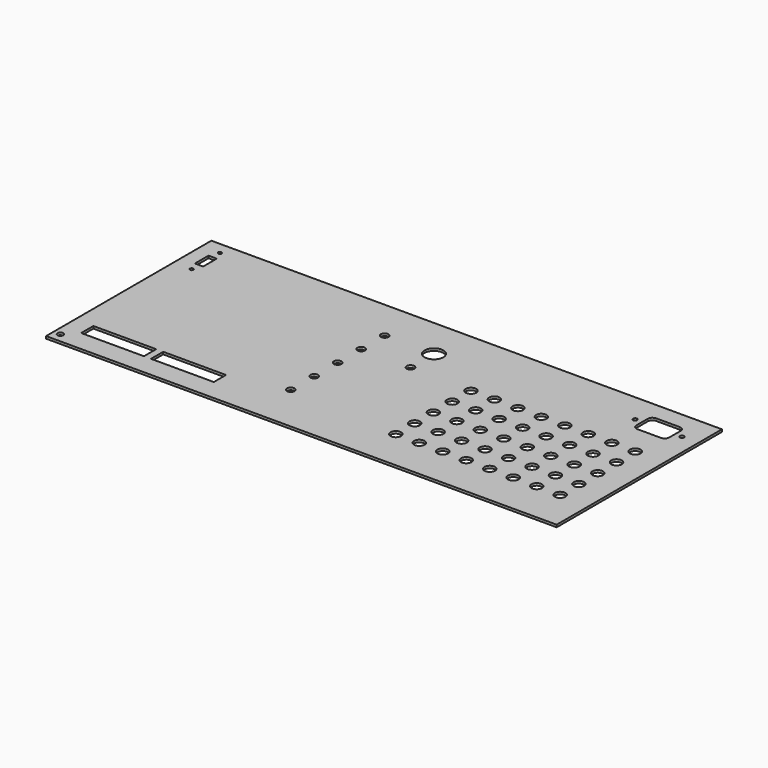
from build123d import *

# Parameters (mm, degrees)
F0_W     = 435
F0_H     = 176
F0_R     = 2.5
F0_W_2   = 53.5
F0_H_2   = 13
F0_R_2   = 3.25
F0_R_3   = 4.5
F0_R_4   = 1.5
F0_W_3   = 7
F0_H_3   = 14.5
F0_R_5   = 8
F0_R_6   = 1.75
F1_DEPTH = 2


with BuildPart() as f1:
    # F0 (on Top) → F1 (new body)
    with BuildSketch(Plane.XY):
        Rectangle(F0_W, F0_H)
        with Locations((-211.722836, -80)):
            Circle(F0_R, mode=Mode.SUBTRACT)
        with Locations((-175.25, -63.5)):
            Rectangle(F0_W_2, F0_H_2, mode=Mode.SUBTRACT)
        with Locations((-115.75, -63.5)):
            Rectangle(F0_W_2, F0_H_2, mode=Mode.SUBTRACT)
        with Locations((-42.060282, -46.764122)):
            Circle(F0_R_2, mode=Mode.SUBTRACT)
        with Locations((-42.060282, -21.764122)):
            Circle(F0_R_2, mode=Mode.SUBTRACT)
        with Locations((52.5, -53)):
            Circle(F0_R_3, mode=Mode.SUBTRACT)
        with Locations((72.5, -53)):
            Circle(F0_R_3, mode=Mode.SUBTRACT)
        with Locations((92.5, -53)):
            Circle(F0_R_3, mode=Mode.SUBTRACT)
        with Locations((112.5, -53)):
            Circle(F0_R_3, mode=Mode.SUBTRACT)
        with Locations((132.5, -53)):
            Circle(F0_R_3, mode=Mode.SUBTRACT)
        with Locations((152.5, -53)):
            Circle(F0_R_3, mode=Mode.SUBTRACT)
        with Locations((172.5, -53)):
            Circle(F0_R_3, mode=Mode.SUBTRACT)
        with Locations((192.5, -53)):
            Circle(F0_R_3, mode=Mode.SUBTRACT)
        with Locations((52.5, -33)):
            Circle(F0_R_3, mode=Mode.SUBTRACT)
        with Locations((72.5, -33)):
            Circle(F0_R_3, mode=Mode.SUBTRACT)
        with Locations((92.5, -33)):
            Circle(F0_R_3, mode=Mode.SUBTRACT)
        with Locations((52.5, -13)):
            Circle(F0_R_3, mode=Mode.SUBTRACT)
        with Locations((72.5, -13)):
            Circle(F0_R_3, mode=Mode.SUBTRACT)
        with Locations((92.5, -13)):
            Circle(F0_R_3, mode=Mode.SUBTRACT)
        with Locations((112.5, -33)):
            Circle(F0_R_3, mode=Mode.SUBTRACT)
        with Locations((132.5, -33)):
            Circle(F0_R_3, mode=Mode.SUBTRACT)
        with Locations((152.5, -33)):
            Circle(F0_R_3, mode=Mode.SUBTRACT)
        with Locations((172.5, -33)):
            Circle(F0_R_3, mode=Mode.SUBTRACT)
        with Locations((192.5, -33)):
            Circle(F0_R_3, mode=Mode.SUBTRACT)
        with Locations((112.5, -13)):
            Circle(F0_R_3, mode=Mode.SUBTRACT)
        with Locations((132.5, -13)):
            Circle(F0_R_3, mode=Mode.SUBTRACT)
        with Locations((152.5, -13)):
            Circle(F0_R_3, mode=Mode.SUBTRACT)
        with Locations((172.5, -13)):
            Circle(F0_R_3, mode=Mode.SUBTRACT)
        with Locations((192.5, -13)):
            Circle(F0_R_3, mode=Mode.SUBTRACT)
        with Locations((-42.060282, 3.235878)):
            Circle(F0_R_2, mode=Mode.SUBTRACT)
        with Locations((-42.060282, 28.235878)):
            Circle(F0_R_2, mode=Mode.SUBTRACT)
        with Locations((-202, 47.721983)):
            Circle(F0_R_4, mode=Mode.SUBTRACT)
        with Locations((-202, 62.771983)):
            Rectangle(F0_W_3, F0_H_3, mode=Mode.SUBTRACT)
        with Locations((-202, 77.821983)):
            Circle(F0_R_4, mode=Mode.SUBTRACT)
        with Locations((-42.060282, 53.235878)):
            Circle(F0_R_2, mode=Mode.SUBTRACT)
        with Locations((52.5, 7)):
            Circle(F0_R_3, mode=Mode.SUBTRACT)
        with Locations((72.5, 7)):
            Circle(F0_R_3, mode=Mode.SUBTRACT)
        with Locations((92.5, 7)):
            Circle(F0_R_3, mode=Mode.SUBTRACT)
        with Locations((0, 28.235878)):
            Circle(F0_R_2, mode=Mode.SUBTRACT)
        with Locations((52.5, 27)):
            Circle(F0_R_3, mode=Mode.SUBTRACT)
        with Locations((72.5, 27)):
            Circle(F0_R_3, mode=Mode.SUBTRACT)
        with Locations((92.5, 27)):
            Circle(F0_R_3, mode=Mode.SUBTRACT)
        with Locations((112.5, 7)):
            Circle(F0_R_3, mode=Mode.SUBTRACT)
        with Locations((132.5, 7)):
            Circle(F0_R_3, mode=Mode.SUBTRACT)
        with Locations((152.5, 7)):
            Circle(F0_R_3, mode=Mode.SUBTRACT)
        with Locations((172.5, 7)):
            Circle(F0_R_3, mode=Mode.SUBTRACT)
        with Locations((192.5, 7)):
            Circle(F0_R_3, mode=Mode.SUBTRACT)
        with Locations((112.5, 27)):
            Circle(F0_R_3, mode=Mode.SUBTRACT)
        with Locations((132.5, 27)):
            Circle(F0_R_3, mode=Mode.SUBTRACT)
        with Locations((152.5, 27)):
            Circle(F0_R_3, mode=Mode.SUBTRACT)
        with Locations((172.5, 27)):
            Circle(F0_R_3, mode=Mode.SUBTRACT)
        with Locations((192.5, 27)):
            Circle(F0_R_3, mode=Mode.SUBTRACT)
        with Locations((0, 53.235878)):
            Circle(F0_R_5, mode=Mode.SUBTRACT)
        with Locations((163.5, 63)):
            Circle(F0_R_6, mode=Mode.SUBTRACT)
        with BuildLine():
            ThreePointArc((197.5, 57), (196.328427, 54.171573), (193.5, 53))
            Line((193.5, 53), (173.5, 53))
            ThreePointArc((173.5, 53), (170.671573, 54.171573), (169.5, 57))
            Line((169.5, 57), (169.5, 69))
            ThreePointArc((169.5, 69), (170.671573, 71.828427), (173.5, 73))
            Line((173.5, 73), (193.5, 73))
            ThreePointArc((193.5, 73), (196.328427, 71.828427), (197.5, 69))
            Line((197.5, 69), (197.5, 57))
        make_face(mode=Mode.SUBTRACT)
        with Locations((203.5, 63)):
            Circle(F0_R_6, mode=Mode.SUBTRACT)
    extrude(amount=-F1_DEPTH)


solid = f1.part
